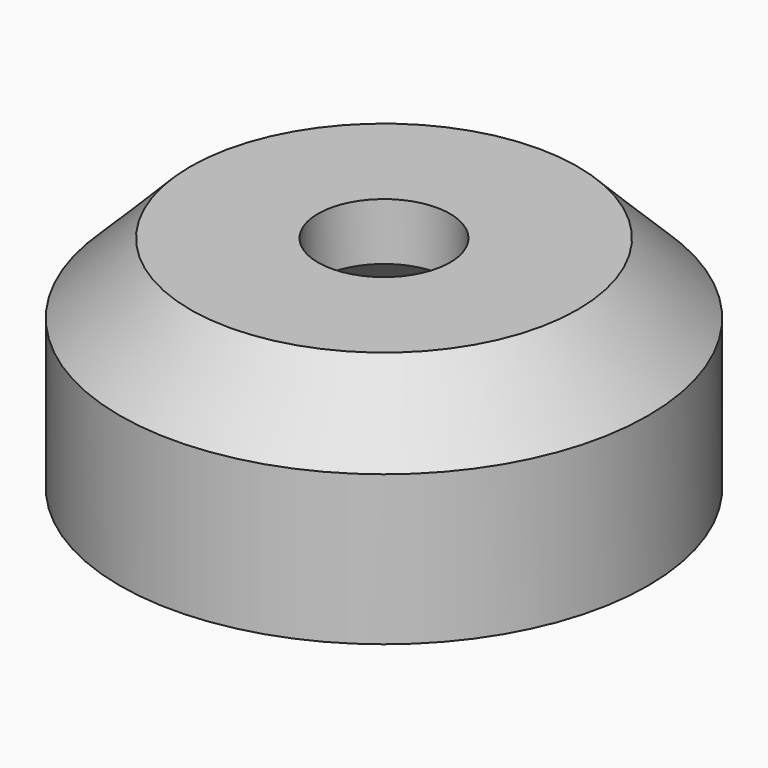
from build123d import *

# Parameters (mm, degrees)
F0_R     = 9.525
F1_DEPTH = 7.9375
F2_SIZE2 = 2.54
F2_SIZE  = 2.54
F4_D     = 4.7625
F6_D     = 15.875
F6_DEPTH = 2.54
F6_TIP   = 4.7693311635


with BuildPart() as f1:
    # F0 (on Top) → F1 (new body)
    with BuildSketch(Plane.XY):
        Circle(F0_R)
    extrude(amount=F1_DEPTH)

    # F2
    f2_edges = [f1.edges().sort_by_distance(p)[0] for p in [
        (-9.525, 0, 7.9375),
    ]]
    chamfer(f2_edges, length=F2_SIZE, length2=F2_SIZE2)

    # F4 (through all)
    with Locations(Plane.XY.offset(7.9375)):
        with Locations((0, 0)):
            Hole(F4_D / 2)

    # F6
    with Locations(Plane(origin=(0, 0, 0), x_dir=(1, 0, 0), z_dir=(0, 0, -1))):
        with Locations((0, 0)):
            Hole(F6_D / 2, depth=F6_DEPTH)
            with Locations((0, 0, -(F6_DEPTH + F6_TIP / 2))):  # 118° drill point
                Cone(0, F6_D / 2, F6_TIP, mode=Mode.SUBTRACT)


solid = f1.part
